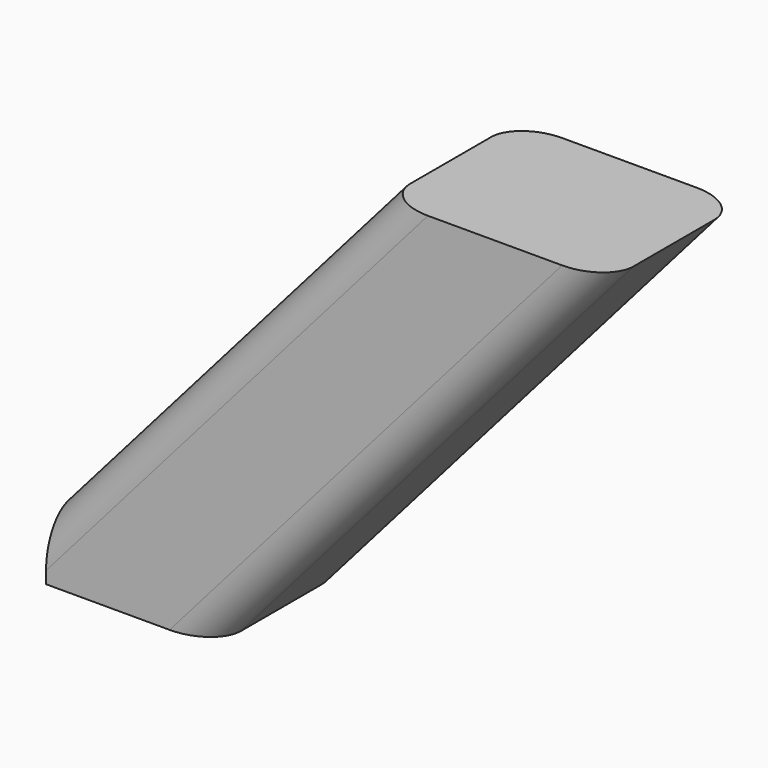
from build123d import *

# Parameters (mm, degrees)
F1_DEPTH = 150
F2_R     = 30


with BuildPart() as f1:
    # F0 (on Front) → F1 (new body)
    with BuildSketch(Plane.XZ):
        Polygon((0, 206.360267), (0, 150), (150, 150), (500, 550), (350, 550), (300.684766, 550), align=None)
    extrude(amount=F1_DEPTH)

    # F2
    f2_edges = [f1.edges().sort_by_distance(p)[0] for p in [
        (150.342383, -150, 378.180134),
        (325, -150, 350),
        (325, 0, 350),
        (150.342383, 0, 378.180134),
    ]]
    fillet(f2_edges, radius=F2_R)


solid = f1.part
